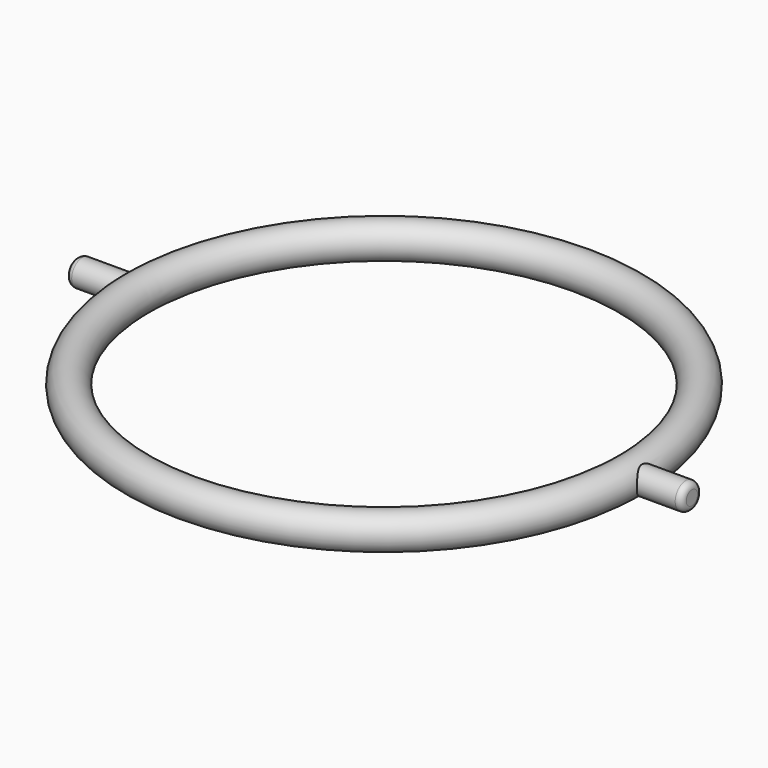
from build123d import *

# Parameters (mm, degrees)
F1_R     = 2.54
F4_R     = 1.905
F5_DEPTH = 7.2099480175
F6_R     = 0.889


with BuildPart() as f2:
    # F2: sweep along a path in F0
    with BuildLine(Plane.XY) as f2_path:
        CenterArc((0, 0), 35.56, 0, 360)
    # F1 (on Right) → F2 (sweep)
    with BuildSketch(Plane.YZ):
        with Locations((-35.56, 0)):
            Circle(F1_R)
    sweep(path=f2_path.line)

    # F4 (on offset) → F5 (join, through all)
    with BuildSketch(Plane.YZ.offset(44.45)):
        Circle(F4_R)
    extrude(amount=-F5_DEPTH)

    # F6
    f6_edges = [f2.edges().sort_by_distance(p)[0] for p in [
        (44.45, -1.905, 0),
    ]]
    fillet(f6_edges, radius=F6_R)

    # F7: F2 across plane


with BuildPart() as f2_1:
    add(f2.part)
    add(f2.part.mirror(Plane.YZ))


solid = f2_1.part
